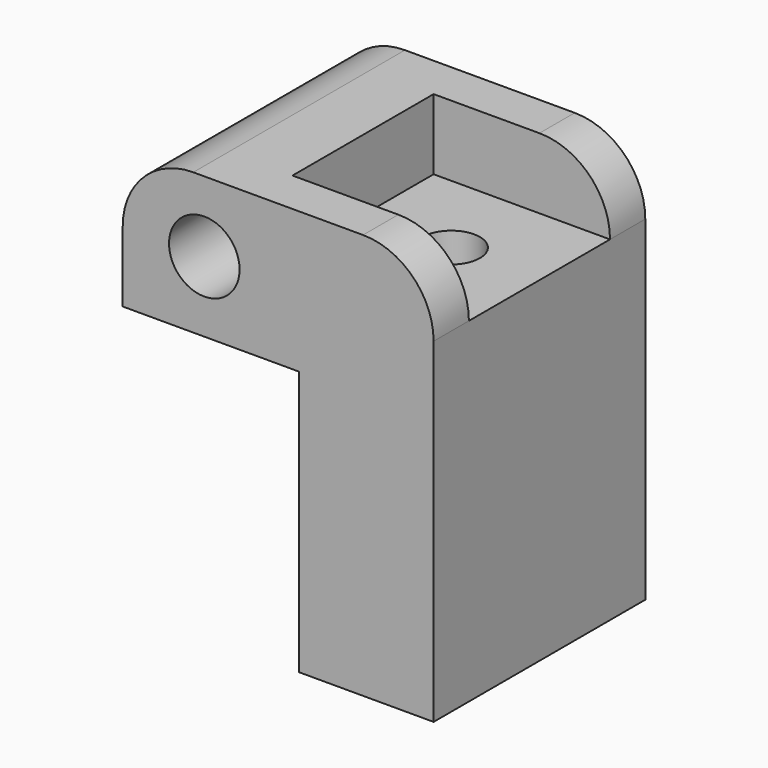
from build123d import *

# Parameters (mm, degrees)
F0_R     = 4
F0_W     = 20
F0_H     = 8
F1_DEPTH = 15
F2_DEPTH = 10
F3_R     = 3.25
F4_DEPTH = 38.001
F5_R     = 8


with BuildPart() as f1:
    # F0 (on Front) → F1 (new body, symmetric)
    with BuildSketch(Plane.XZ):
        Polygon((-20, 0), (0, 0), (0, -30), (15.25, -30), (15.25, 8), (-4.75, 8), (-4.75, 16), (-20, 16), align=None)
        with Locations((-10.75, 8)):
            Circle(F0_R, mode=Mode.SUBTRACT)
        with Locations((5.25, 12)):
            Rectangle(F0_W, F0_H)
    extrude(amount=F1_DEPTH, both=True)

    # F0 (on Front) → F2 (cut, symmetric)
    with BuildSketch(Plane.XZ):
        with Locations((5.25, 12)):
            Rectangle(F0_W, F0_H)
    extrude(amount=F2_DEPTH, both=True, mode=Mode.SUBTRACT)

    # F3 (on face) → F4 (cut, through all)
    with BuildSketch(Plane.XY.offset(8)):
        with Locations((5.25, 0)):
            Circle(F3_R)
    extrude(amount=-F4_DEPTH, mode=Mode.SUBTRACT)

    # F5
    f5_edges = [f1.edges().sort_by_distance(p)[0] for p in [
        (-20, 0, 16),
        (15.25, -12.5, 16),
        (15.25, 12.5, 16),
    ]]
    fillet(f5_edges, radius=F5_R)


solid = f1.part
